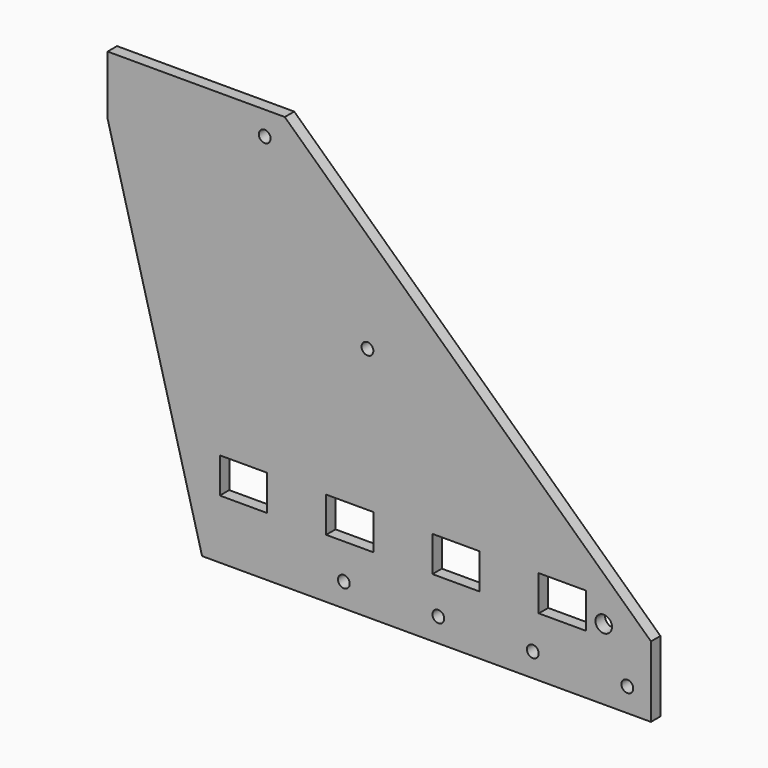
from build123d import *

# Parameters (mm, degrees)
F0_R     = 5
F0_W     = 40
F0_H     = 30
F0_R_2   = 7
F1_DEPTH = 10


with BuildPart() as f1:
    # F0 (on Front) → F1 (new body)
    with BuildSketch(Plane.XZ):
        Polygon((-380, 0), (0, 0), (0, 60), (-310, 350), (-460, 350), (-460, 300), align=None)
        with Locations((-260, 20)):
            Circle(F0_R, mode=Mode.SUBTRACT)
        with Locations((-345, 65)):
            Rectangle(F0_W, F0_H, mode=Mode.SUBTRACT)
        with Locations((-255, 65)):
            Rectangle(F0_W, F0_H, mode=Mode.SUBTRACT)
        with Locations((-180, 20)):
            Circle(F0_R, mode=Mode.SUBTRACT)
        with Locations((-165, 65)):
            Rectangle(F0_W, F0_H, mode=Mode.SUBTRACT)
        with Locations((-100, 20)):
            Circle(F0_R, mode=Mode.SUBTRACT)
        with Locations((-20, 20)):
            Circle(F0_R, mode=Mode.SUBTRACT)
        with Locations((-75, 65)):
            Rectangle(F0_W, F0_H, mode=Mode.SUBTRACT)
        with Locations((-40, 60)):
            Circle(F0_R_2, mode=Mode.SUBTRACT)
        with Locations((-240, 200)):
            Circle(F0_R, mode=Mode.SUBTRACT)
        with Locations((-327, 330)):
            Circle(F0_R, mode=Mode.SUBTRACT)
    extrude(amount=F1_DEPTH)


solid = f1.part
